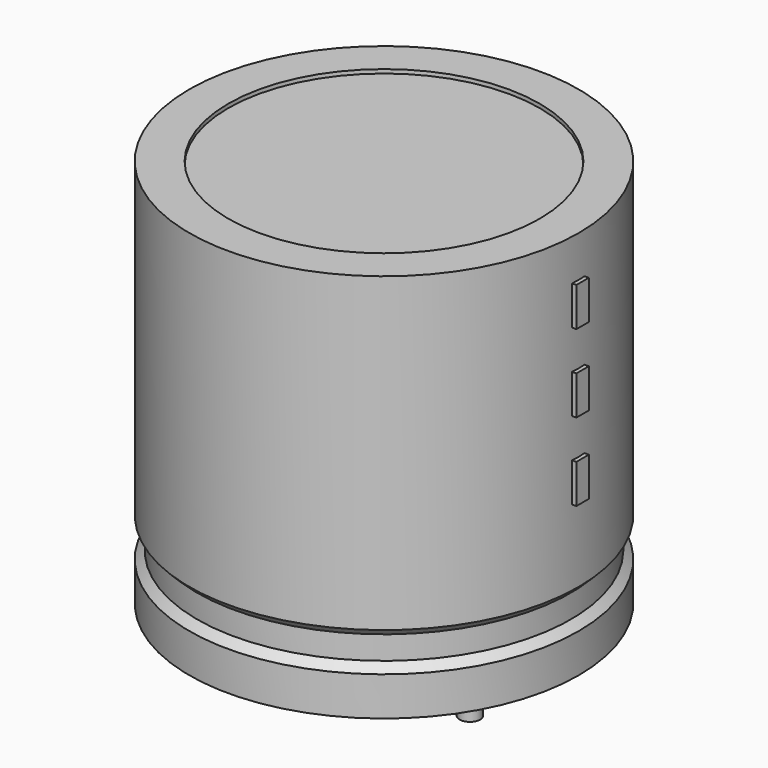
from build123d import *

# Parameters (mm, degrees)
SKETCH002_W  = 7.82
SKETCH002_H  = 16.66
SKETCH003_R  = 0.45
PAD_DEPTH    = 4.7
SKETCH004_W  = 0.68
SKETCH004_H  = 1.7
PAD001_DEPTH = 8.67


with BuildPart() as revolution:
    # Sketch → Revolution (revolve)
    with BuildSketch(Plane.XZ):
        Polygon((-4.75, 0.1), (-4.75, 1.8), (-4.41, 2.14), (-4.41, 3.16), (-4.75, 3.5), (-4.75, 17.1), (-3.05, 17.1), (-3.05, 0.1), align=None)
    revolve(axis=Axis((3.75, 0, 7.548619), (0, 0, -1)))


with BuildPart() as revolution001:
    # Sketch002 → Revolution001 (revolve)
    with BuildSketch(Plane.XZ):
        with Locations((-0.16, 8.6)):
            Rectangle(SKETCH002_W, SKETCH002_H)
    revolve(axis=Axis((3.75, 0, 4.680116), (0, 0, -1)))


with BuildPart() as pad:
    # Sketch003 → Pad (new body)
    with BuildSketch(Plane.XY.offset(1.7)):
        Circle(SKETCH003_R)
        with Locations((7.5, 0)):
            Circle(SKETCH003_R)
    extrude(amount=-PAD_DEPTH)


with BuildPart() as pad001:
    # Sketch004 → Pad001 (new body)
    with BuildSketch(Plane.YZ.offset(3.75)):
        with Locations((0, 7.65)):
            Rectangle(SKETCH004_W, SKETCH004_H)
        with Locations((0, 11.05)):
            Rectangle(SKETCH004_W, SKETCH004_H)
        with Locations((0, 14.45)):
            Rectangle(SKETCH004_W, SKETCH004_H)
    extrude(amount=PAD001_DEPTH)


solid = Compound([revolution.part, revolution001.part, pad.part, pad001.part])
